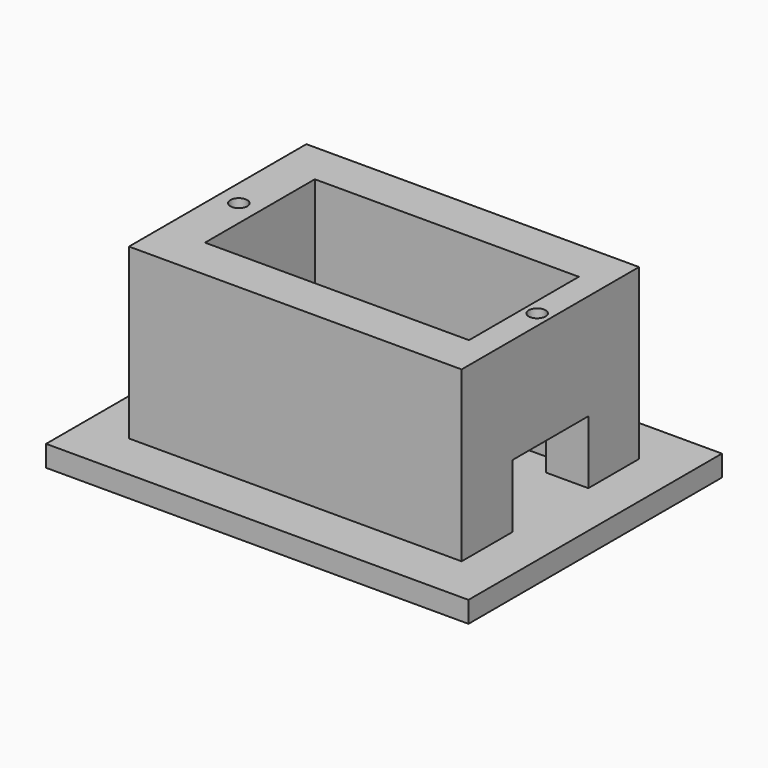
from build123d import *

# Parameters (mm, degrees)
BOX_W         = 40
BOX_H         = 30
BOX_DEPTH     = 2
PAD_DEPTH     = 6
SKETCH001_W   = 31.5
SKETCH001_H   = 21
SKETCH001_W_2 = 25
SKETCH001_H_2 = 13
PAD001_DEPTH  = 10
SKETCH002_R   = 0.8
POCKET_DEPTH  = 6


with BuildPart() as part:
    # Box → Box (new body)
    with BuildSketch(Plane.XY):
        with Locations((20, 15)):
            Rectangle(BOX_W, BOX_H)
    extrude(amount=BOX_DEPTH)

    # Sketch (on Face6 of BaseFeature) → Pad (new body)
    with BuildSketch(Plane.XY.offset(2)):
        Polygon((35.75, 19.5), (35.75, 25.5), (4.25, 25.5), (4.25, 4.5), (35.75, 4.5), (35.75, 10.5), (31.75, 10.5), (31.75, 8.5), (8.25, 8.5), (8.25, 21.5), (31.75, 21.5), (31.75, 19.5), align=None)
    extrude(amount=PAD_DEPTH)

    # Sketch001 (on Face19 of Pad) → Pad001 (join)
    with BuildSketch(Plane.XY.offset(8)):
        with Locations((20, 15)):
            Rectangle(SKETCH001_W, SKETCH001_H)
        with Locations((20.75, 15)):
            Rectangle(SKETCH001_W_2, SKETCH001_H_2, mode=Mode.SUBTRACT)
    extrude(amount=PAD001_DEPTH)

    # Sketch002 (on Face29 of Pad001) → Pocket (cut)
    with BuildSketch(Plane.XY.offset(18)):
        with Locations((6.25, 15)):
            Circle(SKETCH002_R)
        with Locations((34.5, 15)):
            Circle(SKETCH002_R)
    extrude(amount=-POCKET_DEPTH, mode=Mode.SUBTRACT)


solid = part.part
